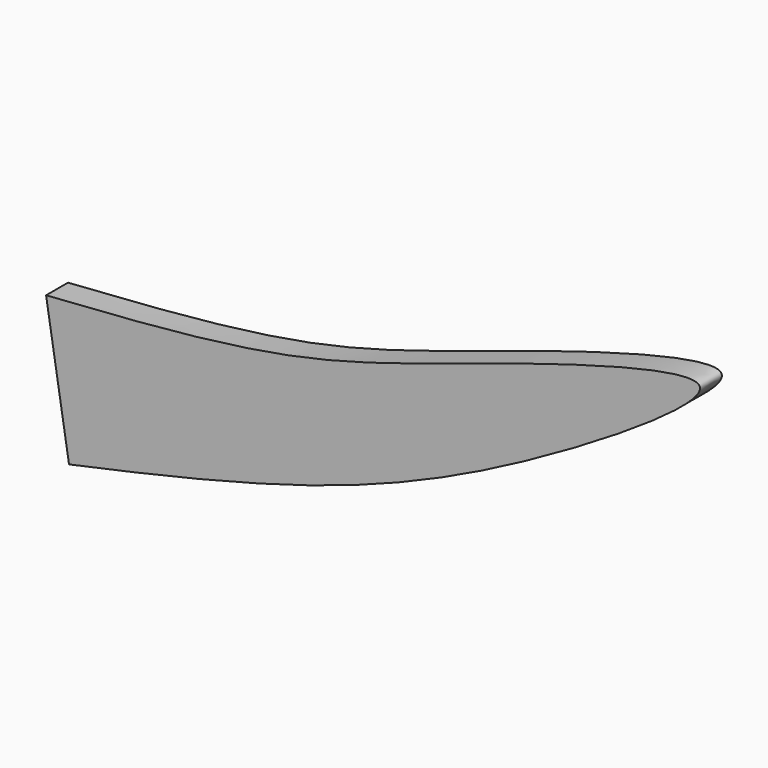
from build123d import *

# Parameters (mm, degrees)
F1_DEPTH = 6.096


with BuildPart() as f1:
    # F0 (on Front) → F1 (new body)
    with BuildSketch(Plane.XZ):
        with BuildLine():
            add(Edge.make_bspline(
                [(0, 23.8979645073), (19.4349767481, 25.2125025845), (57.7348570829, 27.8030202736), (100.1521905033, 43.96949184), (166.2047480734, 62.5018458114), (103.1381069028, 21.8914209048), (58.749460666, 4.2674561128), (22.0425077404, -4.0035995406), (5.1128525416, -7.6242001819)],
                knots=[0, 0, 0, 0, 0.173200477, 0.3413205804, 0.486090058, 0.6404700485, 0.818630609, 0.9670723375, 0.9670723375, 0.9670723375, 0.9670723375], degree=3))
            Line((0, 23.8979645073), (5.1128525416, -7.6242001819))
        make_face()
    extrude(amount=F1_DEPTH)


solid = f1.part
